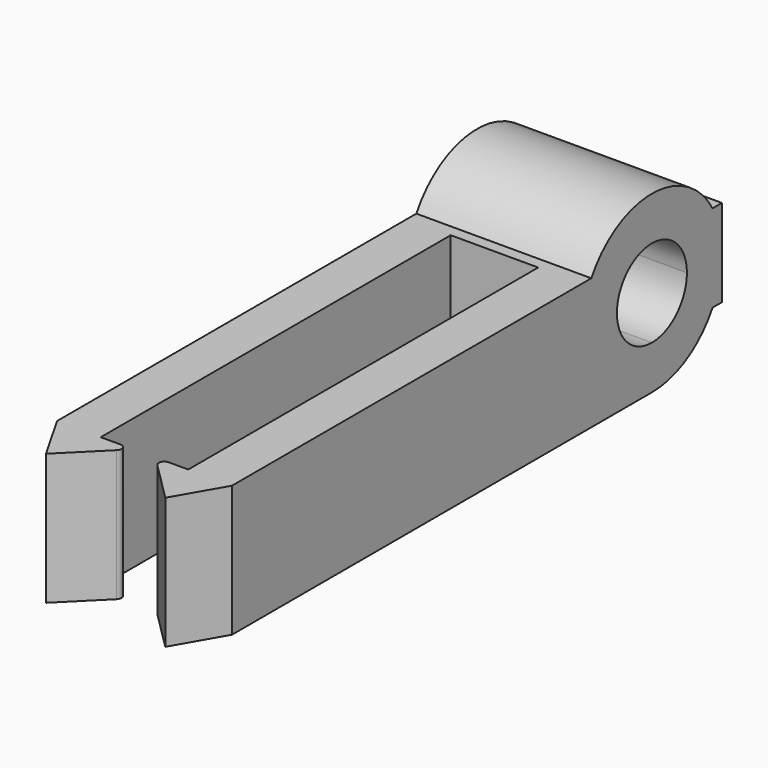
from build123d import *

# Parameters (mm, degrees)
F1_DEPTH = 4
F3_DEPTH = 16
F4_DEPTH = 25
F5_DEPTH = 25


with BuildPart() as f1:
    # F0 (on Top) → F1 (new body, symmetric)
    with BuildSketch(Plane.XY):
        Polygon((9.9233569652, 60.4344099144), (9.9233569652, 44.4344099144), (13.9233569652, 44.4344099144), (21.9233569652, 44.4344099144), (25.9233569652, 44.4344099144), (25.9233569652, 60.4344099144), align=None)
        with BuildLine():
            Line((9.9233569652, 4.4344099144), (12.4728915006, 0))
            Line((12.4728915006, 0), (16.0660725096, 3.580218208))
            ThreePointArc((16.0660725096, 3.580218208), (16.1752710503, 4.1253341753), (15.7131585893, 4.4344099144))
            Line((15.7131585893, 4.4344099144), (13.9233569652, 4.4344099144))
            Line((13.9233569652, 4.4344099144), (13.9233569652, 44.4344099144))
            Line((13.9233569652, 44.4344099144), (9.9233569652, 44.4344099144))
            Line((9.9233569652, 44.4344099144), (9.9233569652, 4.4344099144))
        make_face()
        with BuildLine():
            Line((25.9233569652, 44.4344099144), (21.9233569652, 44.4344099144))
            Line((21.9233569652, 44.4344099144), (21.9233569652, 4.4344099144))
            Line((21.9233569652, 4.4344099144), (20.1335553411, 4.4344099144))
            ThreePointArc((20.1335553411, 4.4344099144), (19.6714428801, 4.1253341753), (19.7806414208, 3.580218208))
            Line((19.7806414208, 3.580218208), (23.3738224298, 0))
            Line((23.3738224298, 0), (25.9233569652, 4.4344099144))
            Line((25.9233569652, 4.4344099144), (25.9233569652, 44.4344099144))
        make_face()
    extrude(amount=F1_DEPTH, both=True)

    # F2 (on face) → F3 (join, through all)
    with BuildSketch(Plane.YZ.offset(25.9233569652)):
        with BuildLine():
            Line((59.3626131447, -4), (52.4344099144, -4))
            Line((52.4344099144, -4), (45.5062066841, -4))
            ThreePointArc((45.5062066841, -4), (48.4344099144, -6.9282032303), (52.4344099144, -8))
            ThreePointArc((52.4344099144, -8), (56.4344099144, -6.9282032303), (59.3626131447, -4))
        make_face()
        with BuildLine():
            ThreePointArc((52.4344099144, -8), (48.4344099144, -6.9282032303), (45.5062066841, -4))
            Line((45.5062066841, -4), (4.4344099144, -4))
            Line((4.4344099144, -4), (0, -4))
            Line((0, -4), (0, -8))
            Line((0, -8), (52.4344099144, -8))
        make_face()
        with BuildLine():
            Line((45.5062066841, 4), (52.4344099144, 4))
            Line((52.4344099144, 4), (59.3626131447, 4))
            ThreePointArc((59.3626131447, 4), (52.4344099144, 8), (45.5062066841, 4))
        make_face()
    extrude(amount=-F3_DEPTH)

    # F2 (on face) → F4 (cut)
    with BuildSketch(Plane.YZ.offset(25.9233569652)):
        with BuildLine():
            ThreePointArc((52.4344099144, -4), (55.2628370391, -2.8284271247), (56.4344099144, 0))
            ThreePointArc((56.4344099144, 0), (55.2628370391, 2.8284271247), (52.4344099144, 4))
            ThreePointArc((52.4344099144, 4), (48.4344099144, 0), (52.4344099144, -4))
        make_face()
    extrude(amount=-F4_DEPTH, mode=Mode.SUBTRACT)

    # F5 (cut): faces of the model
    f5_faces = [f1.faces().sort_by_distance(p)[0] for p in [
        (17.9233569652, 22.5369531537, -4),
        (10.7732018103, 1.4781366381, -4),
        (25.0735121201, 1.4781366381, -4),
    ]]
    extrude(f5_faces, amount=-F5_DEPTH, mode=Mode.SUBTRACT)


solid = f1.part
